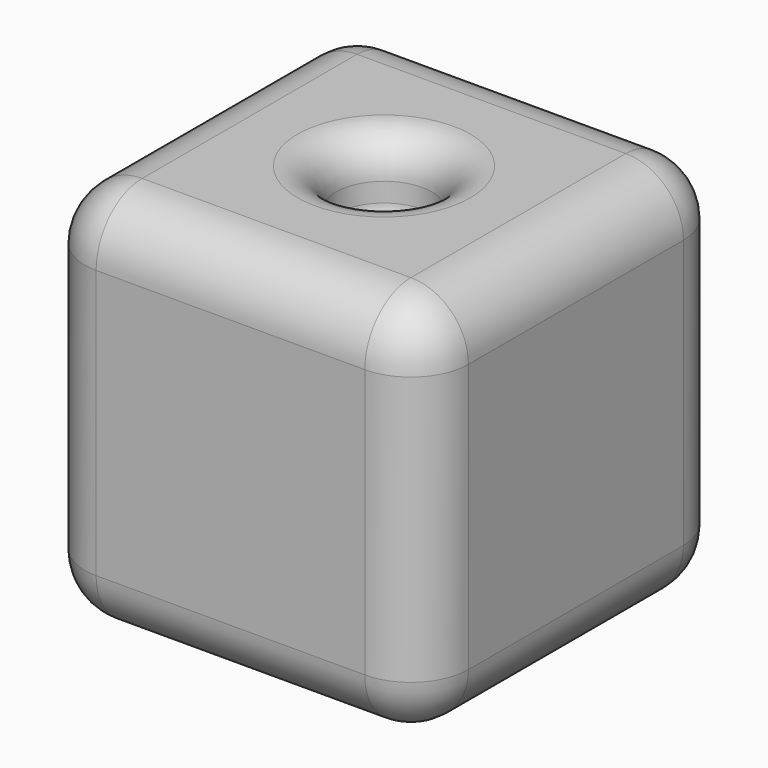
from build123d import *

# Parameters (mm, degrees)
SKETCH001_W  = 100
SKETCH001_H  = 100
PAD_DEPTH    = 100
SKETCH_R     = 12.5
POCKET_DEPTH = 20
FILLET_R     = 15
FILLET001_R  = 15
FILLET002_R  = 15
FILLET003_R  = 10
FILLET004_R  = 5


with BuildPart() as part:
    # Sketch001 → Pad (new body)
    with BuildSketch(Plane.XY):
        Rectangle(SKETCH001_W, SKETCH001_H)
    extrude(amount=PAD_DEPTH)

    # Sketch (on Face6 of Pad) → Pocket (cut)
    with BuildSketch(Plane.XY.offset(100)):
        Circle(SKETCH_R)
    extrude(amount=-POCKET_DEPTH, mode=Mode.SUBTRACT)

    # Fillet
    fillet_edges = [part.edges().sort_by_distance(p)[0] for p in [
        (50, -50, 50),
        (-50, -50, 50),
        (50, 50, 50),
        (-50, 50, 50),
    ]]
    fillet(fillet_edges, radius=FILLET_R)

    # Fillet001
    fillet001_edges = [part.edges().sort_by_distance(p)[0] for p in [
        (-50, 0, 100),
        (-45.606602, 45.606602, 100),
        (0, 50, 100),
        (45.606602, 45.606602, 100),
        (50, 0, 100),
        (45.606602, -45.606602, 100),
        (0, -50, 100),
        (-45.606602, -45.606602, 100),
    ]]
    fillet(fillet001_edges, radius=FILLET001_R)

    # Fillet002
    fillet002_edges = [part.edges().sort_by_distance(p)[0] for p in [
        (0, -50, 0),
        (-45.606602, -45.606602, 0),
        (-50, 0, 0),
        (-45.606602, 45.606602, 0),
        (0, 50, 0),
        (45.606602, 45.606602, 0),
        (50, 0, 0),
        (45.606602, -45.606602, 0),
    ]]
    fillet(fillet002_edges, radius=FILLET002_R)

    # Fillet003
    fillet003_edges = [part.edges().sort_by_distance(p)[0] for p in [
        (-12.5, 0, 100),
    ]]
    fillet(fillet003_edges, radius=FILLET003_R)

    # Fillet004
    fillet004_edges = [part.edges().sort_by_distance(p)[0] for p in [
        (-12.5, 0, 80),
    ]]
    fillet(fillet004_edges, radius=FILLET004_R)


solid = part.part
